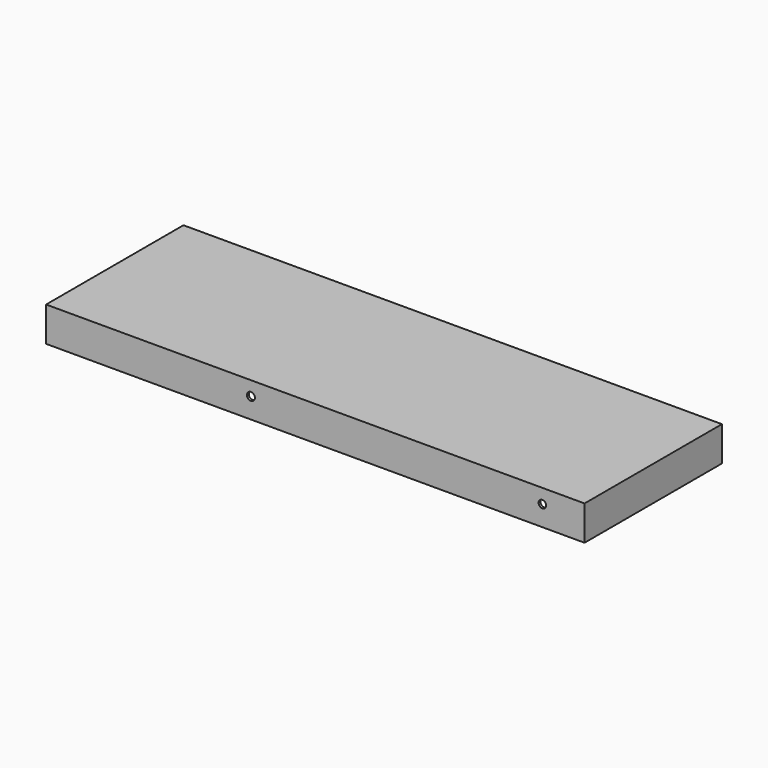
from build123d import *

# Parameters (mm, degrees)
F0_W     = 228
F0_H     = 46
F1_DEPTH = 715
F2_T     = -3
F3_R     = 5
F3_R_2   = 5.279175
F4_DEPTH = 3


with BuildPart() as f1:
    # F0 (on Right) → F1 (new body)
    with BuildSketch(Plane.YZ):
        with Locations((65.187312, -3.430253)):
            Rectangle(F0_W, F0_H)
    extrude(amount=F1_DEPTH)

    # F2
    f2_openings = [f1.faces().sort_by_distance(p)[0] for p in [
        (357.5, 65.187312, -26.430253),
    ]]
    offset(amount=F2_T, openings=f2_openings)

    # F3 (on face) → F4 (cut)
    with BuildSketch(Plane.XZ.offset(48.812688)):
        with Locations((659, 0.569747)):
            Circle(F3_R)
        with Locations((272, 0.569747)):
            Circle(F3_R_2)
    extrude(amount=-F4_DEPTH, mode=Mode.SUBTRACT)


solid = f1.part
